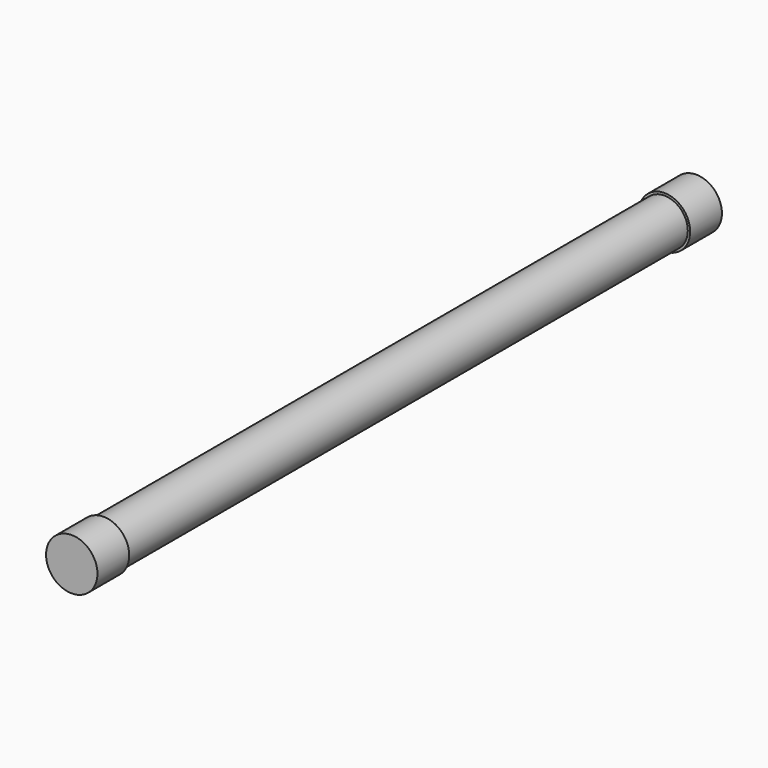
from build123d import *

# Parameters (mm, degrees)
F0_R     = 10
F0_R_2   = 9.5
F1_DEPTH = 300


with BuildPart() as f1:
    # F0 (on Front) → F1 (new body)
    with BuildSketch(Plane.XZ):
        Circle(F0_R)
        Circle(F0_R_2, mode=Mode.SUBTRACT)
    extrude(amount=F1_DEPTH)

    # F2 (on Top) → F3 (revolve)
    with BuildSketch(Plane.XY):
        Polygon((11, -300), (0, -300), (0, -317), (1.930615992, -317), (11, -317), align=None)
    revolve(axis=Axis((0, -515.2761181587, 0), (0, 1, 0)))

    # F5: F1 across plane


with BuildPart() as f1_1:
    add(f1.part)
    add(f1.part.mirror(Plane(origin=(0, -150, 0), x_dir=(1, 0, 0), z_dir=(0, 1, 0))))


solid = f1_1.part
